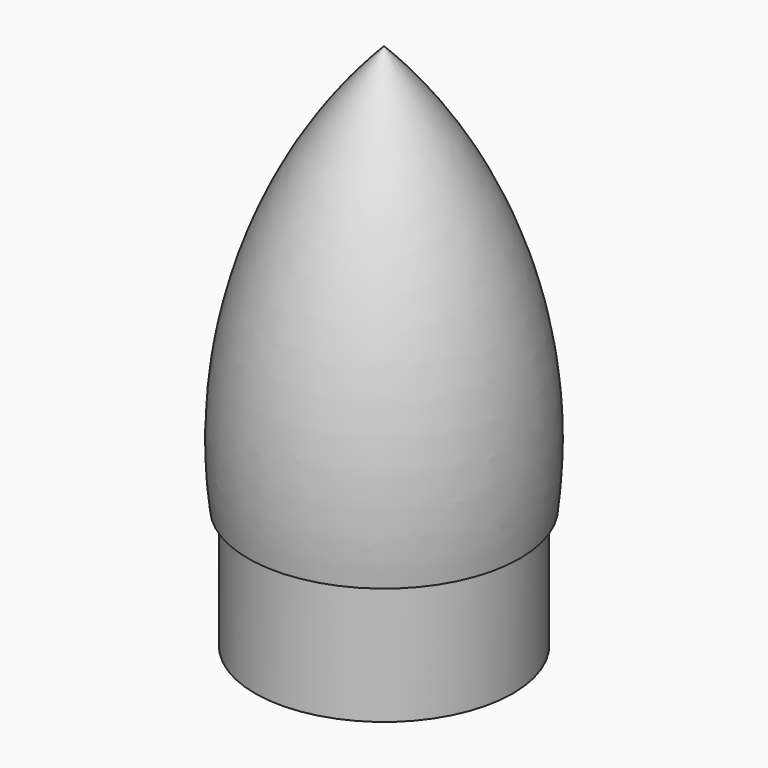
from build123d import *


with BuildPart() as f1:
    # F0 (on Front) → F1 (revolve)
    with BuildSketch(Plane.XZ):
        with BuildLine():
            Line((23.8125, 25.4), (23.8125, 0))
            Line((23.8125, 0), (25.4, 0))
            Line((25.4, 0), (25.4, 23.8125))
            Line((25.4, 23.8125), (26.750057, 23.8125))
            ThreePointArc((26.750057, 23.8125), (22.443239, 66.888099), (0, 103.906431))
            Line((0, 103.906431), (0, 101.6))
            ThreePointArc((0, 101.6), (20.978203, 66.263059), (25.3365, 25.4))
            Line((25.3365, 25.4), (23.8125, 25.4))
        make_face()
    revolve(axis=Axis((0, 0, 50.8), (0, 0, 1)))


solid = f1.part
